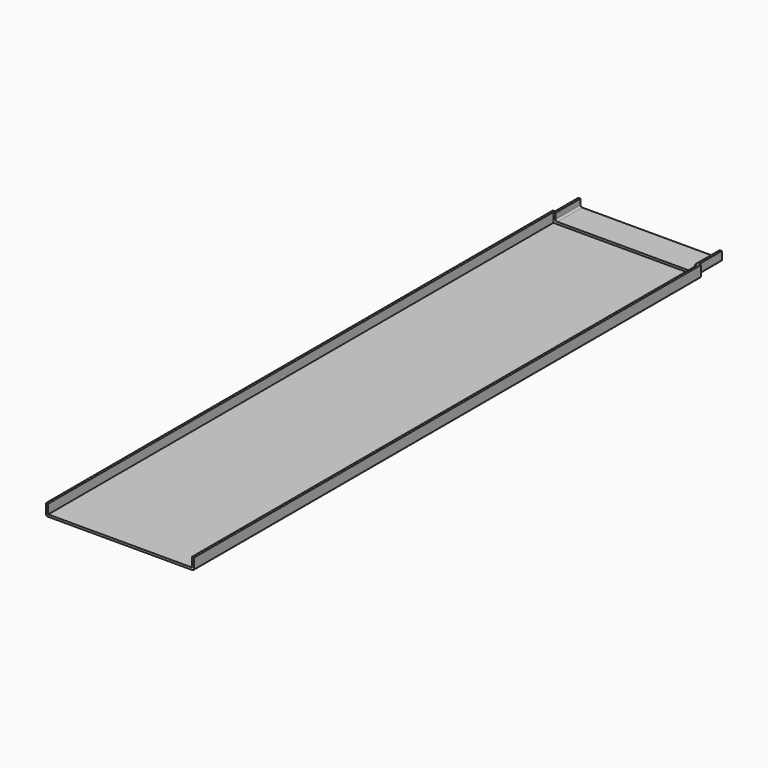
from build123d import *

# Parameters (mm, degrees)
F1_DEPTH = 917.5
F2_DEPTH = 40
F3_W     = 199
F3_H     = 770.7896669658
F4_DEPTH = 13
F5_DEPTH = 110


with BuildPart() as f1:
    # F0 (on Front) → F1 (new body)
    with BuildSketch(Plane.XZ):
        with BuildLine():
            ThreePointArc((-102.5, -13.5), (-101.767766953, -15.267766953), (-100, -16))
            Line((-100, -16), (100, -16))
            ThreePointArc((100, -16), (101.767766953, -15.267766953), (102.5, -13.5))
            Line((102.5, -13.5), (102.5, 0))
            Line((102.5, 0), (99.5, 0))
            Line((99.5, 0), (99.5, -10.5))
            ThreePointArc((99.5, -10.5), (98.767766953, -12.267766953), (97, -13))
            Line((97, -13), (-97, -13))
            ThreePointArc((-97, -13), (-98.767766953, -12.267766953), (-99.5, -10.5))
            Line((-99.5, -10.5), (-99.5, 0))
            Line((-99.5, 0), (-102.5, 0))
            Line((-102.5, 0), (-102.5, -13.5))
        make_face()
        with BuildLine():
            Line((-96.5, 0), (-99.5, 0))
            Line((-99.5, 0), (-99.5, -10.5))
            ThreePointArc((-99.5, -10.5), (-98.767766953, -12.267766953), (-97, -13))
            Line((-97, -13), (97, -13))
            ThreePointArc((97, -13), (98.767766953, -12.267766953), (99.5, -10.5))
            Line((99.5, -10.5), (99.5, 0))
            Line((99.5, 0), (96.5, 0))
            Line((96.5, 0), (96.5, -7.5))
            ThreePointArc((96.5, -7.5), (95.767766953, -9.267766953), (94, -10))
            Line((94, -10), (-94, -10))
            ThreePointArc((-94, -10), (-95.767766953, -9.267766953), (-96.5, -7.5))
            Line((-96.5, -7.5), (-96.5, 0))
        make_face()
    extrude(amount=F1_DEPTH)

    # F0 (on Front) → F2 (cut)
    with BuildSketch(Plane.XZ):
        with BuildLine():
            ThreePointArc((-102.5, -13.5), (-101.767766953, -15.267766953), (-100, -16))
            Line((-100, -16), (100, -16))
            ThreePointArc((100, -16), (101.767766953, -15.267766953), (102.5, -13.5))
            Line((102.5, -13.5), (102.5, 0))
            Line((102.5, 0), (99.5, 0))
            Line((99.5, 0), (99.5, -10.5))
            ThreePointArc((99.5, -10.5), (98.767766953, -12.267766953), (97, -13))
            Line((97, -13), (-97, -13))
            ThreePointArc((-97, -13), (-98.767766953, -12.267766953), (-99.5, -10.5))
            Line((-99.5, -10.5), (-99.5, 0))
            Line((-99.5, 0), (-102.5, 0))
            Line((-102.5, 0), (-102.5, -13.5))
        make_face()
    extrude(amount=F2_DEPTH, mode=Mode.SUBTRACT)

    # F3 (on face) → F4 (cut)
    with BuildSketch(Plane.XY):
        with Locations((0, -428.3948334829)):
            Rectangle(F3_W, F3_H)
    extrude(amount=-F4_DEPTH, mode=Mode.SUBTRACT)

    # F5 (cut): a face of the model
    f5_faces = [f1.faces().sort_by_distance(p)[0] for p in [
        (0, -813.7896669658, -10.9004362027),
    ]]
    extrude(f5_faces, amount=-F5_DEPTH, mode=Mode.SUBTRACT)


solid = f1.part
